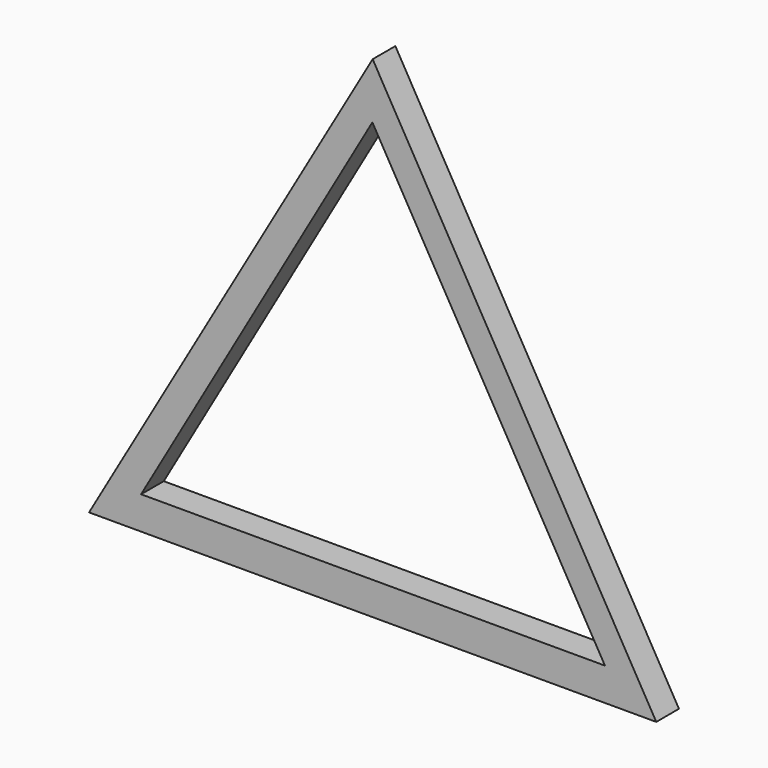
from build123d import *

# Parameters (mm, degrees)
F1_DEPTH = 2.54
F3_DEPTH = 25.4


with BuildPart() as f1:
    # F0 (on Front) → F1 (new body)
    with BuildSketch(Plane.XZ):
        Polygon((-58.007021, 43.994091), (-83.407021, 0), (-32.607021, 0), align=None)
    extrude(amount=F1_DEPTH)

    # F2 (on face) → F3 (cut)
    with BuildSketch(Plane.XZ.offset(2.54)):
        Polygon((-37.20624, 2.944339), (-58.030095, 39.012313), (-78.747906, 2.944339), align=None)
    extrude(amount=-F3_DEPTH, mode=Mode.SUBTRACT)


solid = f1.part
